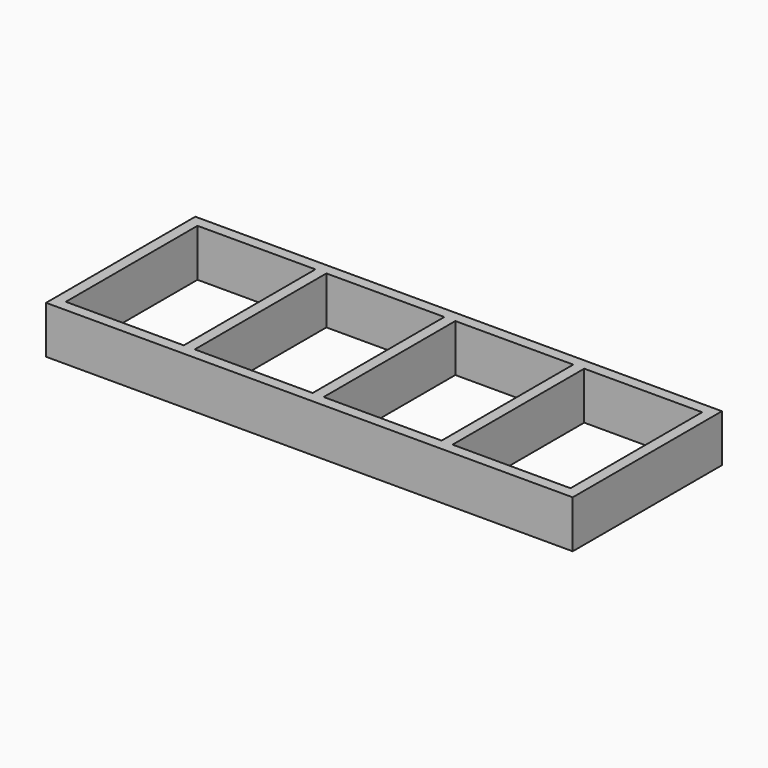
from build123d import *

# Parameters (mm, degrees)
F0_W     = 914.4
F0_H     = 323.85
F1_DEPTH = 82.55
F2_W     = 876.3
F2_H     = 285.75
F3_DEPTH = 82.55
F4_W     = 19.05
F4_H     = 285.75
F5_DEPTH = 82.55
F6_W     = 19.05
F6_H     = 285.75
F7_DEPTH = 82.55
F8_W     = 19.05
F8_H     = 285.75
F9_DEPTH = 82.55


with BuildPart() as f1:
    # F0 (on Top) → F1 (new body)
    with BuildSketch(Plane.XY):
        Rectangle(F0_W, F0_H)
    extrude(amount=F1_DEPTH)

    # F2 (on face) → F3 (cut)
    with BuildSketch(Plane(origin=(0, 0, 0), x_dir=(1, 0, 0), z_dir=(0, 0, -1))):
        Rectangle(F2_W, F2_H)
    extrude(amount=-F3_DEPTH, mode=Mode.SUBTRACT)

    # F4 (on face) → F5 (join)
    with BuildSketch(Plane(origin=(0, 0, 0), x_dir=(1, 0, 0), z_dir=(0, 0, -1))):
        Rectangle(F4_W, F4_H)
    extrude(amount=-F5_DEPTH)

    # F6 (on face) → F7 (join)
    with BuildSketch(Plane(origin=(0, 0, 0), x_dir=(1, 0, 0), z_dir=(0, 0, -1))):
        with Locations((-223.8375, 0)):
            Rectangle(F6_W, F6_H)
    extrude(amount=-F7_DEPTH)

    # F8 (on face) → F9 (join)
    with BuildSketch(Plane(origin=(0, 0, 0), x_dir=(1, 0, 0), z_dir=(0, 0, -1))):
        with Locations((223.8375, 0)):
            Rectangle(F8_W, F8_H)
    extrude(amount=-F9_DEPTH)


solid = f1.part
